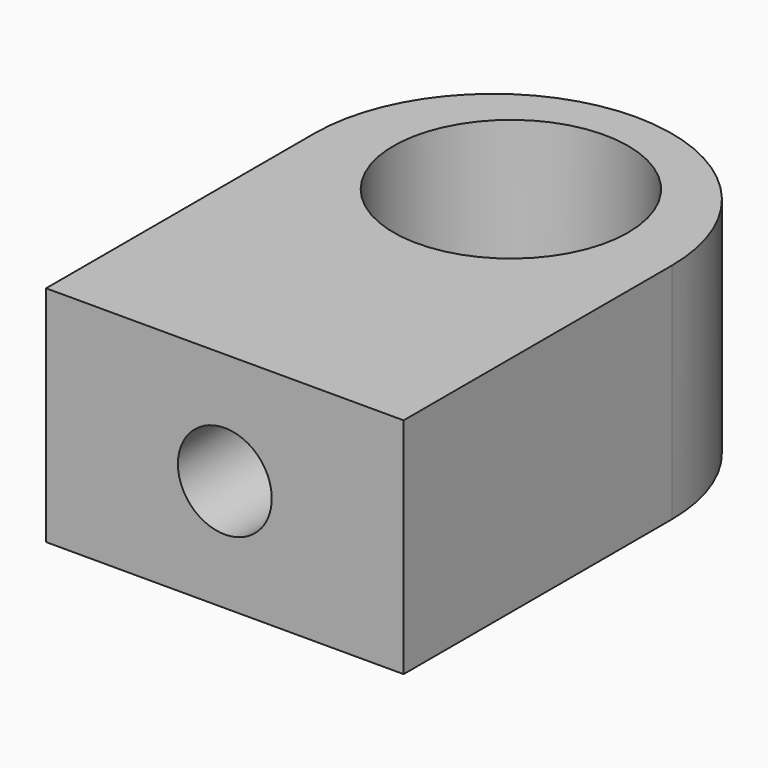
from build123d import *

# Parameters (mm, degrees)
F0_R     = 5.25
F1_DEPTH = 10
F3_D     = 4.2
F3_DEPTH = 8.4
F3_TIP   = 1.2618073


with BuildPart() as f1:
    # F0 (on Top) → F1 (new body)
    with BuildSketch(Plane.XY):
        with BuildLine():
            Line((-8, -11.5), (8, -11.5))
            Line((8, -11.5), (8, 3.5))
            ThreePointArc((8, 3.5), (5.6568542495, 9.1568542495), (0, 11.5))
            ThreePointArc((0, 11.5), (-5.6568542495, 9.1568542495), (-8, 3.5))
            Line((-8, 3.5), (-8, -11.5))
        make_face()
        with Locations((0, 4.5)):
            Circle(F0_R, mode=Mode.SUBTRACT)
    extrude(amount=F1_DEPTH)

    # F3
    with Locations(Plane.XZ.offset(11.5)):
        with Locations((0, 5)):
            Hole(F3_D / 2, depth=F3_DEPTH)
            with Locations((0, 0, -(F3_DEPTH + F3_TIP / 2))):  # 118° drill point
                Cone(0, F3_D / 2, F3_TIP, mode=Mode.SUBTRACT)


solid = f1.part
